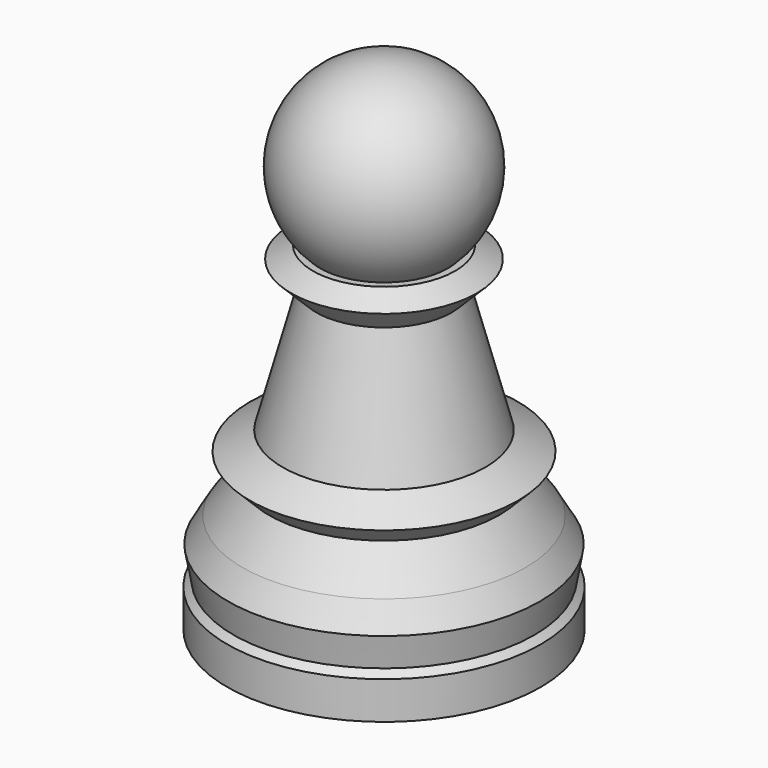
from build123d import *

# Parameters (mm, degrees)
F0_R      = 12.5
F1_DEPTH  = 3
F1_FACE_R = 12.5
F2_DEPTH  = 0.5
F2_TAPER  = 45
F2_FACE_R = 12
F3_DEPTH  = 2.5
F3_TAPER  = -10
F3_FACE_R = 12.4408174518
F4_DEPTH  = 2
F4_TAPER  = 30
F4_FACE_R = 11.2861169134
F5_DEPTH  = 3
F5_TAPER  = 35
F5_FACE_R = 9.1854942988
F6_DEPTH  = 1.5
F6_TAPER  = -45
F6_FACE_R = 10.6854942988
F7_DEPTH  = 1.5
F7_TAPER  = 60
F7_FACE_R = 8.0874180874
F8_DEPTH  = 10
F8_TAPER  = 15
F8_FACE_R = 5.4079261631
F9_DEPTH  = 2
F9_TAPER  = -45
F9_FACE_R = 7.4079261631
F10_DEPTH = 1
F10_TAPER = 60


with BuildPart() as f1:
    # F0 (on Top) → F1 (new body)
    with BuildSketch(Plane.XY):
        Circle(F0_R)
    extrude(amount=F1_DEPTH)

    # F1_face (on face) → F2 (join)
    with BuildSketch(Plane.XY.offset(3)):
        Circle(F1_FACE_R)
    extrude(amount=F2_DEPTH, taper=F2_TAPER)

    # F2_face (on face) → F3 (join)
    with BuildSketch(Plane.XY.offset(3.5)):
        Circle(F2_FACE_R)
    extrude(amount=F3_DEPTH, taper=F3_TAPER)

    # F3_face (on face) → F4 (join)
    with BuildSketch(Plane.XY.offset(6)):
        Circle(F3_FACE_R)
    extrude(amount=F4_DEPTH, taper=F4_TAPER)

    # F4_face (on face) → F5 (join)
    with BuildSketch(Plane.XY.offset(8)):
        Circle(F4_FACE_R)
    extrude(amount=F5_DEPTH, taper=F5_TAPER)

    # F5_face (on face) → F6 (join)
    with BuildSketch(Plane.XY.offset(11)):
        Circle(F5_FACE_R)
    extrude(amount=F6_DEPTH, taper=F6_TAPER)

    # F6_face (on face) → F7 (join)
    with BuildSketch(Plane.XY.offset(12.5)):
        Circle(F6_FACE_R)
    extrude(amount=F7_DEPTH, taper=F7_TAPER)

    # F7_face (on face) → F8 (join)
    with BuildSketch(Plane.XY.offset(14)):
        Circle(F7_FACE_R)
    extrude(amount=F8_DEPTH, taper=F8_TAPER)

    # F8_face (on face) → F9 (join)
    with BuildSketch(Plane.XY.offset(24)):
        Circle(F8_FACE_R)
    extrude(amount=F9_DEPTH, taper=F9_TAPER)

    # F9_face (on face) → F10 (join)
    with BuildSketch(Plane.XY.offset(26)):
        Circle(F9_FACE_R)
    extrude(amount=F10_DEPTH, taper=F10_TAPER)

    # F11 (on Front) → F12 (revolve)
    with BuildSketch(Plane.XZ):
        with BuildLine():
            Line((0, 40), (0, 25))
            ThreePointArc((0, 25), (5.3033008589, 27.1966991411), (7.5, 32.5))
            ThreePointArc((7.5, 32.5), (5.3033008589, 37.8033008589), (0, 40))
        make_face()
    revolve(axis=Axis((0, 0, 24.8627143578), (0, 0, 1)))


solid = f1.part
